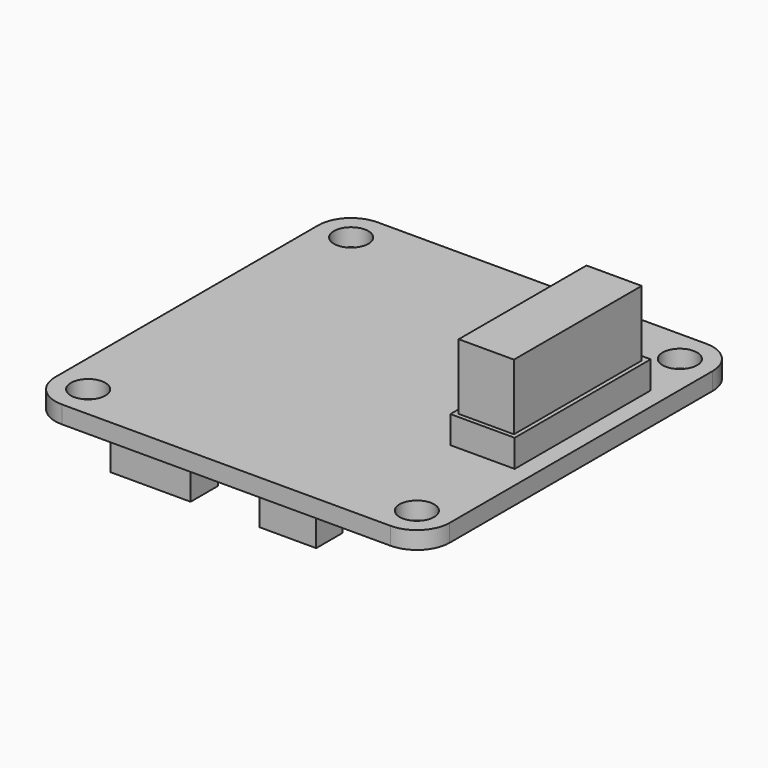
from build123d import *

# Parameters (mm, degrees)
F0_W     = 36
F0_H     = 36
F1_DEPTH = 1.6
F2_R     = 3
F3_D     = 3.15
F4_W     = 5.162462825
F4_H     = 2.9942281544
F4_W_2   = 7.3306979612
F4_H_2   = 3.097477369
F5_DEPTH = 3
F6_W     = 5.8629876003
F6_H     = 15.5157274567
F7_DEPTH = 2.5
F8_W     = 5.0398427993
F8_H     = 14.5735112019
F9_DEPTH = 6


with BuildPart() as f1:
    # F0 (on Top) → F1 (new body)
    with BuildSketch(Plane.XY):
        Rectangle(F0_W, F0_H)
    extrude(amount=-F1_DEPTH)

    # F2
    f2_edges = [f1.edges().sort_by_distance(p)[0] for p in [
        (18, -18, -0.8),
        (-18, -18, -0.8),
        (18, 18, -0.8),
        (-18, 18, -0.8),
    ]]
    fillet(f2_edges, radius=F2_R)

    # F3 (through all)
    with Locations(Plane.XY):
        with Locations((-15, 15), (15, 15), (15, -15), (-15, -15)):
            Hole(F3_D / 2)

    # F4 (on face) → F5 (join)
    with BuildSketch(Plane(origin=(0, 0, -1.6), x_dir=(1, 0, 0), z_dir=(0, 0, -1))):
        with Locations((4.9126524245, 15.6052540988)):
            Rectangle(F4_W, F4_H)
        with Locations((-7.6321330853, 15.5536294915)):
            Rectangle(F4_W_2, F4_H_2)
    extrude(amount=F5_DEPTH)

    # F6 (on face) → F7 (join)
    with BuildSketch(Plane.XY):
        with Locations((13.4858717211, 2.1426391322)):
            Rectangle(F6_W, F6_H)
    extrude(amount=F7_DEPTH)

    # F8 (on face) → F9 (join)
    with BuildSketch(Plane.XY.offset(2.5)):
        with Locations((13.5199902579, 2.0592806395)):
            Rectangle(F8_W, F8_H)
    extrude(amount=F9_DEPTH)


solid = f1.part
